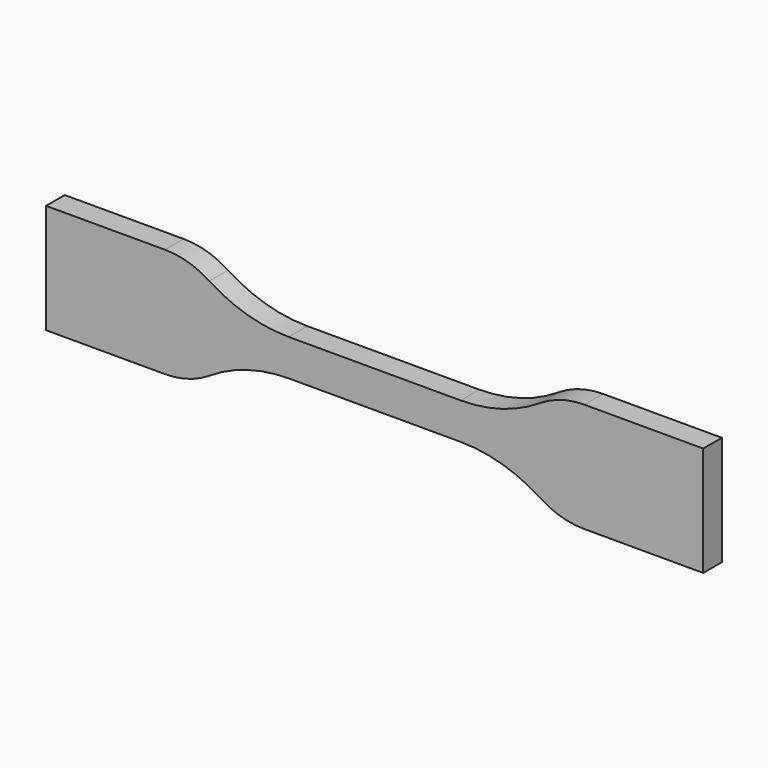
from build123d import *

# Parameters (mm, degrees)
F1_DEPTH = 4.064


with BuildPart() as f1:
    # F0 (on Front) → F1 (new body)
    with BuildSketch(Plane.XZ):
        with BuildLine():
            Line((14.949479, 3.175), (0, 3.175))
            Line((0, 3.175), (-14.949479, 3.175))
            ThreePointArc((-14.949479, 3.175), (-22.139438, 4.213873), (-28.741251, 7.245513))
            ThreePointArc((-28.741251, 7.245513), (-32.438266, 8.943231), (-36.464644, 9.525))
            Line((-36.464644, 9.525), (-57.15, 9.525))
            Line((-57.15, 9.525), (-57.15, 0))
            Line((-57.15, 0), (-57.15, -9.525))
            Line((-57.15, -9.525), (-36.464644, -9.525))
            ThreePointArc((-36.464644, -9.525), (-32.438266, -8.943231), (-28.741251, -7.245513))
            ThreePointArc((-28.741251, -7.245513), (-22.139438, -4.213873), (-14.949479, -3.175))
            Line((-14.949479, -3.175), (0, -3.175))
            Line((0, -3.175), (14.949479, -3.175))
            ThreePointArc((14.949479, -3.175), (22.139438, -4.213873), (28.741251, -7.245513))
            ThreePointArc((28.741251, -7.245513), (32.438266, -8.943231), (36.464644, -9.525))
            Line((36.464644, -9.525), (57.15, -9.525))
            Line((57.15, -9.525), (57.15, 0))
            Line((57.15, 0), (57.15, 9.525))
            Line((57.15, 9.525), (36.464644, 9.525))
            ThreePointArc((36.464644, 9.525), (32.438266, 8.943231), (28.741251, 7.245513))
            ThreePointArc((28.741251, 7.245513), (22.139438, 4.213873), (14.949479, 3.175))
        make_face()
    extrude(amount=F1_DEPTH)


solid = f1.part
